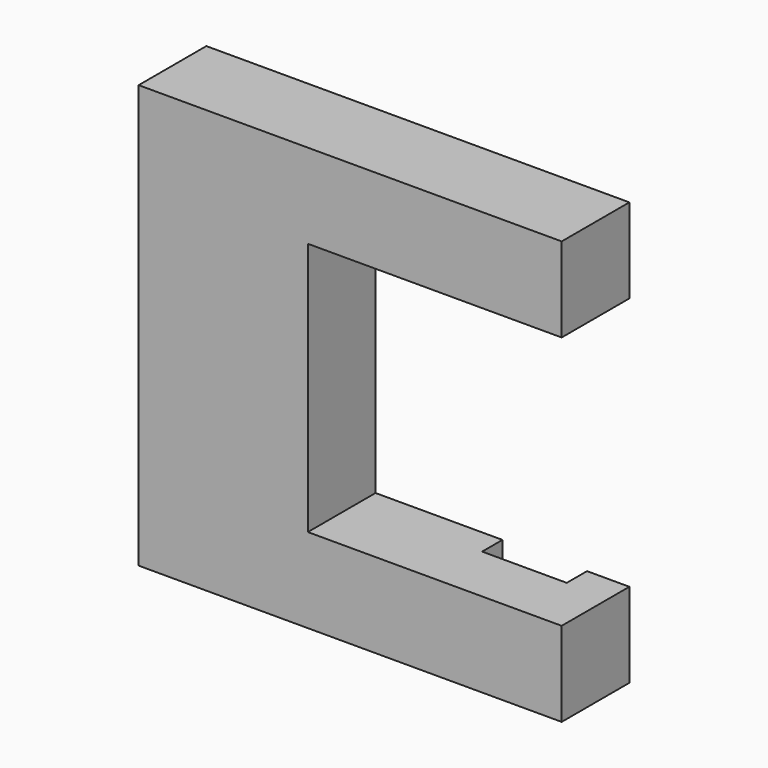
from build123d import *

# Parameters (mm, degrees)
F1_DEPTH = 10
F2_W     = 10
F2_H     = 3
F3_DEPTH = 25


with BuildPart() as f1:
    # F0 (on Front) → F1 (new body)
    with BuildSketch(Plane.XZ):
        Polygon((0, 50), (0, 0), (20, 0), (50, 0), (50, 10), (20, 10), (20, 40), (50, 40), (50, 50), (20, 50), align=None)
    extrude(amount=F1_DEPTH)

    # F2 (on face) → F3 (cut)
    with BuildSketch(Plane.XY.offset(10)):
        with Locations((40, -1.5)):
            Rectangle(F2_W, F2_H)
    extrude(amount=-F3_DEPTH, mode=Mode.SUBTRACT)


solid = f1.part
